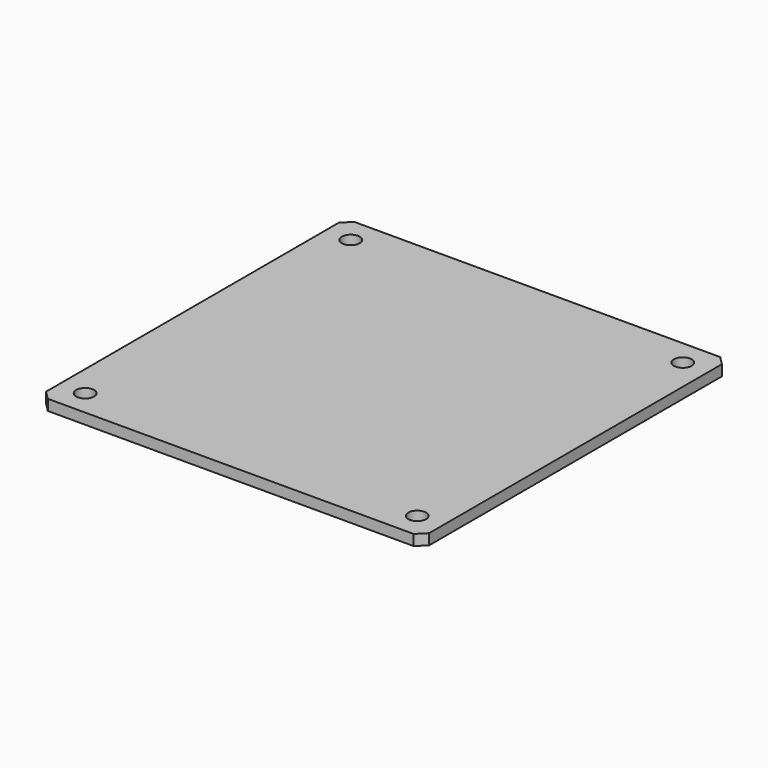
from build123d import *

# Parameters (mm, degrees)
F0_R     = 1.3335
F1_DEPTH = 1.6


with BuildPart() as f1:
    # F0 (on Top) → F1 (new body)
    with BuildSketch(Plane.XY):
        Polygon((55.87, 0), (1.28, 0), (0, -1.28), (0, -55.87), (1.28, -57.15), (55.87, -57.15), (57.15, -55.87), (57.15, -1.28), align=None)
        with Locations((3.81, -53.34)):
            Circle(F0_R, mode=Mode.SUBTRACT)
        with Locations((53.34, -53.34)):
            Circle(F0_R, mode=Mode.SUBTRACT)
        with Locations((3.81, -3.81)):
            Circle(F0_R, mode=Mode.SUBTRACT)
        with Locations((53.34, -3.81)):
            Circle(F0_R, mode=Mode.SUBTRACT)
    extrude(amount=F1_DEPTH)


solid = f1.part
